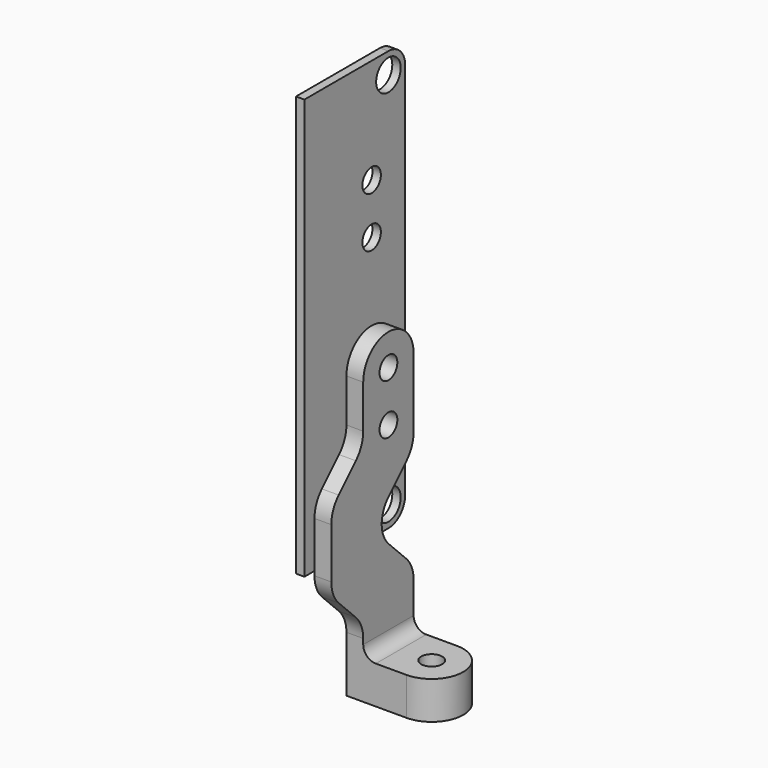
from build123d import *

# Parameters (mm, degrees)
SKETCH_R     = 2.75
SKETCH_R_2   = 3.65
PAD_DEPTH    = 2
SKETCH001_R  = 2.65
PAD001_DEPTH = 4
SKETCH002_R  = 2.5
PAD002_DEPTH = 9
POCKET_DEPTH = 3
FILLET_R     = 3


with BuildPart() as z_plate:
    # Sketch → Pad (new body)
    with BuildSketch(Plane.YZ):
        with BuildLine():
            Line((-20, 30), (5, 30))
            ThreePointArc((5, 30), (8.535534, 31.464466), (10, 35))
            Line((10, 35), (10, 125))
            ThreePointArc((10, 125), (8.535534, 128.535534), (5, 130))
            Line((5, 130), (-20, 130))
            Line((-20, 130), (-20, 30))
        make_face()
        with Locations((0, 105)):
            Circle(SKETCH_R, mode=Mode.SUBTRACT)
        with Locations((0, 93)):
            Circle(SKETCH_R, mode=Mode.SUBTRACT)
        with Locations((0, 67)):
            Circle(SKETCH_R, mode=Mode.SUBTRACT)
        with Locations((0, 55)):
            Circle(SKETCH_R, mode=Mode.SUBTRACT)
        with Locations((5, 125)):
            Circle(SKETCH_R_2, mode=Mode.SUBTRACT)
        with Locations((5, 35)):
            Circle(SKETCH_R_2, mode=Mode.SUBTRACT)
    extrude(amount=-PAD_DEPTH)


with BuildPart() as z_endstop_screw_mount:
    # Sketch001 → Pad001 (new body)
    with BuildSketch(Plane.YZ):
        with BuildLine():
            Line((-7.5, 67), (-7.5, 56.7193))
            ThreePointArc((-9.696699, 51.415999), (-8.070904, 53.849174), (-7.5, 56.7193))
            Line((-9.696699, 51.415999), (-14.803301, 46.309398))
            ThreePointArc((-14.803301, 46.309398), (-16.429096, 43.876222), (-17, 41.006097))
            Line((-17, 41.006097), (-17, 28.993903))
            ThreePointArc((-17, 28.993903), (-16.429096, 26.123778), (-14.803301, 23.690602))
            Line((-14.803301, 23.690602), (-9.696699, 18.584001))
            ThreePointArc((-7.5, 13.2807), (-8.070904, 16.150826), (-9.696699, 18.584001))
            Line((-7.5, 13.2807), (-7.5, 0))
            Line((-7.5, 0), (7.5, 0))
            Line((7.5, 0), (7.5, 19.493903))
            ThreePointArc((7.5, 19.493903), (6.929096, 22.364029), (5.303301, 24.797204))
            Line((5.303301, 24.797204), (0.050253, 30.050253))
            ThreePointArc((0.050253, 39.949747), (-2, 35), (0.050253, 30.050253))
            Line((0.050253, 39.949747), (5.303301, 45.202796))
            ThreePointArc((5.303301, 45.202796), (6.929096, 47.635971), (7.5, 50.506097))
            Line((7.5, 50.506097), (7.5, 67))
            ThreePointArc((7.5, 67), (0, 74.5), (-7.5, 67))
        make_face()
        with Locations((0, 67)):
            Circle(SKETCH001_R, mode=Mode.SUBTRACT)
        with Locations((0, 55)):
            Circle(SKETCH001_R, mode=Mode.SUBTRACT)
    extrude(amount=PAD001_DEPTH)

    # Sketch002 → Pad002 (new body)
    with BuildSketch(Plane.YX):
        with BuildLine():
            Line((-7.5, 14.3), (-7.5, 4))
            Line((-7.5, 4), (7.5, 4))
            Line((7.5, 4), (7.5, 14.3))
            ThreePointArc((7.5, 14.3), (0, 21.8), (-7.5, 14.3))
        make_face()
        with Locations((0, 14.3)):
            Circle(SKETCH002_R, mode=Mode.SUBTRACT)
    extrude(amount=-PAD002_DEPTH)

    # Sketch003 → Pocket (cut)
    with BuildSketch(Plane.YX):
        Polygon((-4, 11.990599), (-4, 16.609401), (0, 18.918802), (4, 16.609401), (4, 11.990599), (0, 9.681198), align=None)
    extrude(amount=-POCKET_DEPTH, mode=Mode.SUBTRACT)

    # Fillet
    fillet_edges = [z_endstop_screw_mount.edges().sort_by_distance(p)[0] for p in [
        (4, 0, 9),
    ]]
    fillet(fillet_edges, radius=FILLET_R)


solid = Compound([z_plate.part, z_endstop_screw_mount.part])
